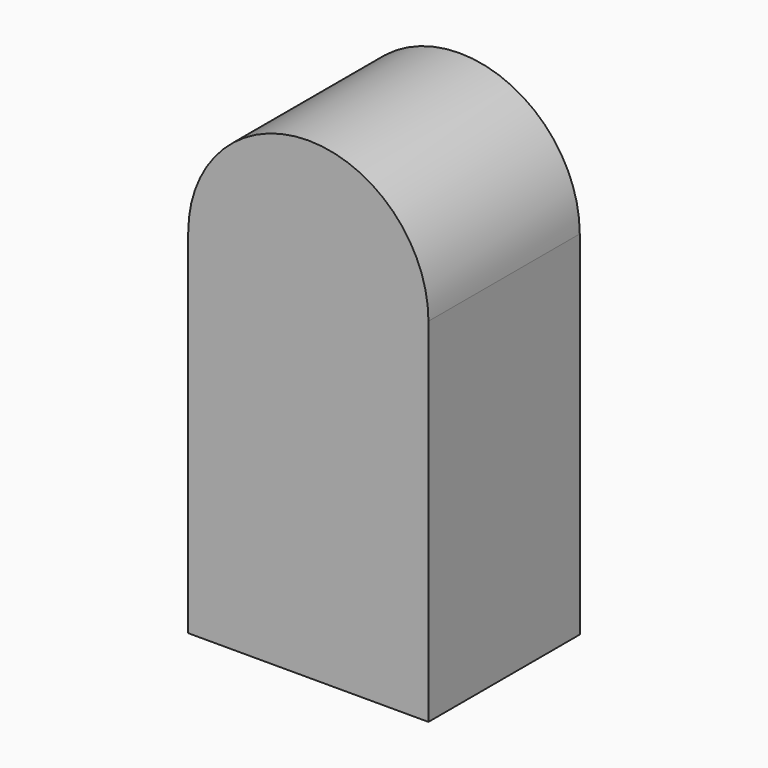
from build123d import *

# Parameters (mm, degrees)
F0_W     = 3.2258
F0_H     = 4.7371
F1_DEPTH = 2.54


with BuildPart() as f1:
    # F0 (on Front) → F1 (new body)
    with BuildSketch(Plane.XZ):
        Rectangle(F0_W, F0_H)
        with BuildLine():
            Line((-1.6129, 2.36855), (1.6129, 2.36855))
            ThreePointArc((1.6129, 2.36855), (0, 3.98145), (-1.6129, 2.36855))
        make_face()
    extrude(amount=F1_DEPTH)


solid = f1.part
